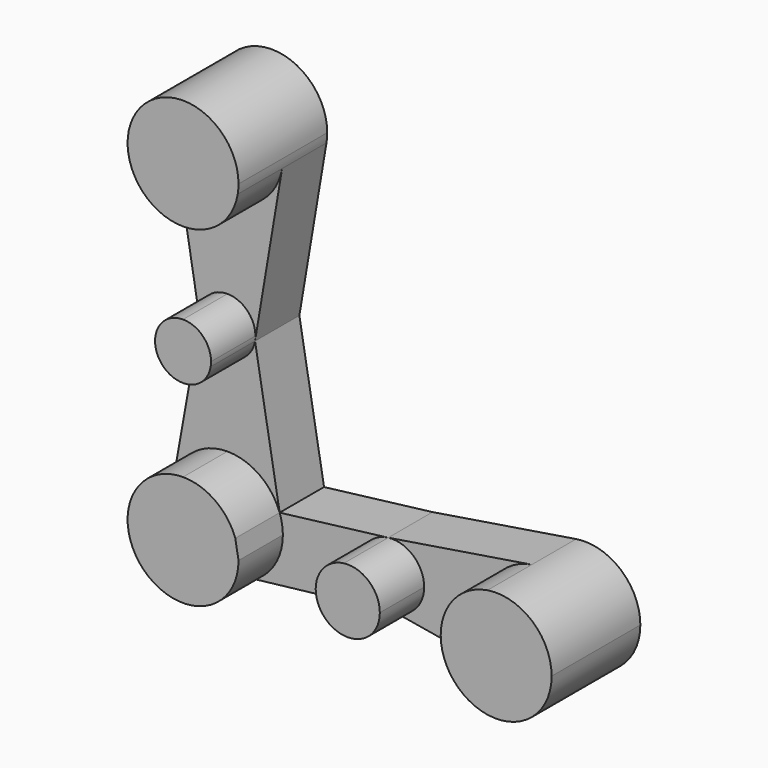
from build123d import *

# Parameters (mm, degrees)
F1_DEPTH = 50.8
F2_DEPTH = 25.4


with BuildPart() as f1:
    # F0 (on Front) → F1 (new body)
    with BuildSketch(Plane.XZ):
        with BuildLine():
            ThreePointArc((-211.9167751071, 126.4433380044), (-195.5158742035, 132.4482239405), (-186.8697401642, 147.6236175673))
            ThreePointArc((-186.8697401642, 147.6236175673), (-186.6051701842, 149.7261095744), (-186.5167751071, 151.8433380044))
            ThreePointArc((-186.5167751071, 151.8433380044), (-214.0340035371, 177.1549429273), (-236.9638100501, 147.6236175673))
            ThreePointArc((-236.9638100501, 147.6236175673), (-228.3176760107, 132.4482239405), (-211.9167751071, 126.4433380044))
        make_face()
    extrude(amount=F1_DEPTH)


with BuildPart() as f1b:
    # F0 (on Front) → F1, piece 2 (new body)
    with BuildSketch(Plane.XZ):
        with BuildLine():
            Line((-211.9167751071, 76.1211671092), (-211.9167751071, 63.3009463244))
            ThreePointArc((-211.9167751071, 63.3009463244), (-203.6386975224, 66.3318110287), (-199.2747074704, 73.9913345244))
            ThreePointArc((-199.2747074704, 73.9913345244), (-199.1411702438, 75.0525318366), (-199.0965543223, 76.1211671092))
            ThreePointArc((-199.0965543223, 76.1211671092), (-202.8515100539, 85.1864321624), (-211.9167751071, 88.9413878939))
            Line((-211.9167751071, 88.9413878939), (-211.9167751071, 76.1211671092))
        make_face()
        with BuildLine():
            ThreePointArc((-224.5588427438, 73.9913345244), (-220.1948526919, 66.3318110287), (-211.9167751071, 63.3009463244))
            Line((-211.9167751071, 63.3009463244), (-211.9167751071, 76.1211671092))
            Line((-211.9167751071, 76.1211671092), (-211.9167751071, 88.9413878939))
            ThreePointArc((-211.9167751071, 88.9413878939), (-221.7061311876, 84.3992446939), (-224.5588427438, 73.9913345244))
        make_face()
    extrude(amount=F1_DEPTH)


with BuildPart() as f1c:
    # F0 (on Front) → F1, piece 3 (new body)
    with BuildSketch(Plane.XZ):
        with BuildLine():
            Line((-186.5167751071, 0), (-211.9167751071, 0))
            Line((-211.9167751071, 0), (-211.9167751071, 25.4))
            ThreePointArc((-211.9167751071, 25.4), (-228.2295951235, 19.4692553302), (-236.9245277098, 4.4466065444))
            ThreePointArc((-236.9245277098, 4.4466065444), (-226.5279143641, -20.7767805401), (-199.2747074704, -22.0303909604))
            ThreePointArc((-199.2747074704, -22.0303909604), (-189.9364598458, -12.7289332237), (-186.5167751071, 0))
        make_face()
        with BuildLine():
            Line((-211.9167751071, 25.4), (-211.9167751071, 0))
            Line((-211.9167751071, 0), (-186.5167751071, 0))
            Line((-186.5167751071, 0), (-187.983467712, 8.5062798644))
            ThreePointArc((-187.983467712, 8.5062798644), (-197.269241331, 20.7511386261), (-211.9167751071, 25.4))
        make_face()
    extrude(amount=F1_DEPTH)


with BuildPart() as f1d:
    # F0 (on Front) → F1, piece 4 (new body)
    with BuildSketch(Plane.XZ):
        with BuildLine():
            ThreePointArc((-121.7935765503, 0), (-126.7444418401, 10.9955136808), (-138.2589179551, 14.5773048554))
            ThreePointArc((-138.2589179551, 14.5773048554), (-147.4746431309, 9.73468761), (-151.1646823497, 0))
            Line((-151.1646823497, 0), (-121.7935765503, 0))
        make_face()
        with BuildLine():
            ThreePointArc((-151.1646823497, 0), (-146.2499849741, -10.9633866254), (-134.7954183365, -14.5887141604))
            ThreePointArc((-134.7954183365, -14.5887141604), (-125.5157428246, -9.770855524), (-121.7935765503, 0))
            Line((-121.7935765503, 0), (-151.1646823497, 0))
        make_face()
    extrude(amount=F1_DEPTH)


with BuildPart() as f1e:
    # F0 (on Front) → F1, piece 5 (new body)
    with BuildSketch(Plane.XZ):
        with BuildLine():
            ThreePointArc((-43.0981432392, 0), (-52.0150964231, 19.325350389), (-72.5051643145, 25.0819413543))
            ThreePointArc((-72.5051643145, 25.0819413543), (-87.8234936282, 16.4830468162), (-93.8981432392, 0))
            ThreePointArc((-93.8981432392, 0), (-87.8932573547, -16.4009008425), (-72.717863834, -25.0470349164))
            ThreePointArc((-72.717863834, -25.0470349164), (-52.0972423967, -19.3951141155), (-43.0981432392, 0))
        make_face()
    extrude(amount=F1_DEPTH)


with BuildPart() as f2:
    # F0 (on Front) → F2 (new body)
    with BuildSketch(Plane.XZ):
        with BuildLine():
            Line((-236.9638100501, 147.6236175673), (-224.5588427438, 73.9913345244))
            ThreePointArc((-224.5588427438, 73.9913345244), (-221.7061311876, 84.3992446939), (-211.9167751071, 88.9413878939))
            Line((-211.9167751071, 88.9413878939), (-211.9167751071, 126.4433380044))
            ThreePointArc((-211.9167751071, 126.4433380044), (-228.3176760107, 132.4482239405), (-236.9638100501, 147.6236175673))
        make_face()
        with BuildLine():
            ThreePointArc((-199.0965543223, 76.1211671092), (-199.1411702438, 75.0525318366), (-199.2747074704, 73.9913345244))
            Line((-199.2747074704, 73.9913345244), (-186.8697401642, 147.6236175673))
            ThreePointArc((-186.8697401642, 147.6236175673), (-195.5158742035, 132.4482239405), (-211.9167751071, 126.4433380044))
            Line((-211.9167751071, 126.4433380044), (-211.9167751071, 88.9413878939))
            ThreePointArc((-211.9167751071, 88.9413878939), (-202.8515100539, 85.1864321624), (-199.0965543223, 76.1211671092))
        make_face()
    extrude(amount=F2_DEPTH)


with BuildPart() as f2b:
    # F0 (on Front) → F2, piece 2 (new body)
    with BuildSketch(Plane.XZ):
        with BuildLine():
            Line((-211.9167751071, 63.3009463244), (-211.9167751071, 25.4))
            ThreePointArc((-211.9167751071, 25.4), (-197.269241331, 20.7511386261), (-187.983467712, 8.5062798644))
            Line((-187.983467712, 8.5062798644), (-199.2747074704, 73.9913345244))
            ThreePointArc((-199.2747074704, 73.9913345244), (-203.6386975224, 66.3318110287), (-211.9167751071, 63.3009463244))
        make_face()
        with BuildLine():
            ThreePointArc((-236.9245277098, 4.4466065444), (-228.2295951235, 19.4692553302), (-211.9167751071, 25.4))
            Line((-211.9167751071, 25.4), (-211.9167751071, 63.3009463244))
            ThreePointArc((-211.9167751071, 63.3009463244), (-220.1948526919, 66.3318110287), (-224.5588427438, 73.9913345244))
            Line((-224.5588427438, 73.9913345244), (-236.9245277098, 4.4466065444))
        make_face()
    extrude(amount=F2_DEPTH)


with BuildPart() as f2c:
    # F0 (on Front) → F2, piece 3 (new body)
    with BuildSketch(Plane.XZ):
        with BuildLine():
            ThreePointArc((-121.7935765503, 0), (-125.5157428246, -9.770855524), (-134.7954183365, -14.5887141604))
            Line((-134.7954183365, -14.5887141604), (-72.717863834, -25.0470349164))
            ThreePointArc((-72.717863834, -25.0470349164), (-87.8932573547, -16.4009008425), (-93.8981432392, 0))
            Line((-93.8981432392, 0), (-119.2981432392, 0))
            Line((-119.2981432392, 0), (-121.7935765503, 0))
        make_face()
        with BuildLine():
            Line((-72.5051643145, 25.0819413543), (-138.2589179551, 14.5773048554))
            ThreePointArc((-138.2589179551, 14.5773048554), (-126.7444418401, 10.9955136808), (-121.7935765503, 0))
            Line((-121.7935765503, 0), (-119.2981432392, 0))
            Line((-119.2981432392, 0), (-93.8981432392, 0))
            ThreePointArc((-93.8981432392, 0), (-87.8234936282, 16.4830468162), (-72.5051643145, 25.0819413543))
        make_face()
    extrude(amount=F2_DEPTH)


with BuildPart() as f2d:
    # F0 (on Front) → F2, piece 4 (new body)
    with BuildSketch(Plane.XZ):
        with BuildLine():
            ThreePointArc((-187.983467712, 8.5062798644), (-186.8861338065, 4.3159003791), (-186.5167751071, 0))
            Line((-186.5167751071, 0), (-182.8762030692, 0))
            Line((-182.8762030692, 0), (-165.6074591732, 0))
            Line((-165.6074591732, 0), (-151.1646823497, 0))
            ThreePointArc((-151.1646823497, 0), (-147.4746431309, 9.73468761), (-138.2589179551, 14.5773048554))
            Line((-138.2589179551, 14.5773048554), (-187.983467712, 8.5062798644))
        make_face()
        with BuildLine():
            Line((-182.8762030692, 0), (-186.5167751071, 0))
            ThreePointArc((-186.5167751071, 0), (-189.9364598458, -12.7289332237), (-199.2747074704, -22.0303909604))
            Line((-199.2747074704, -22.0303909604), (-134.7954183365, -14.5887141604))
            ThreePointArc((-134.7954183365, -14.5887141604), (-146.2499849741, -10.9633866254), (-151.1646823497, 0))
            Line((-151.1646823497, 0), (-165.6074591732, 0))
            Line((-165.6074591732, 0), (-182.8762030692, 0))
        make_face()
    extrude(amount=F2_DEPTH)


solid = Compound([f1.part, f1b.part, f1c.part, f1d.part, f1e.part, f2.part, f2b.part, f2c.part, f2d.part])
